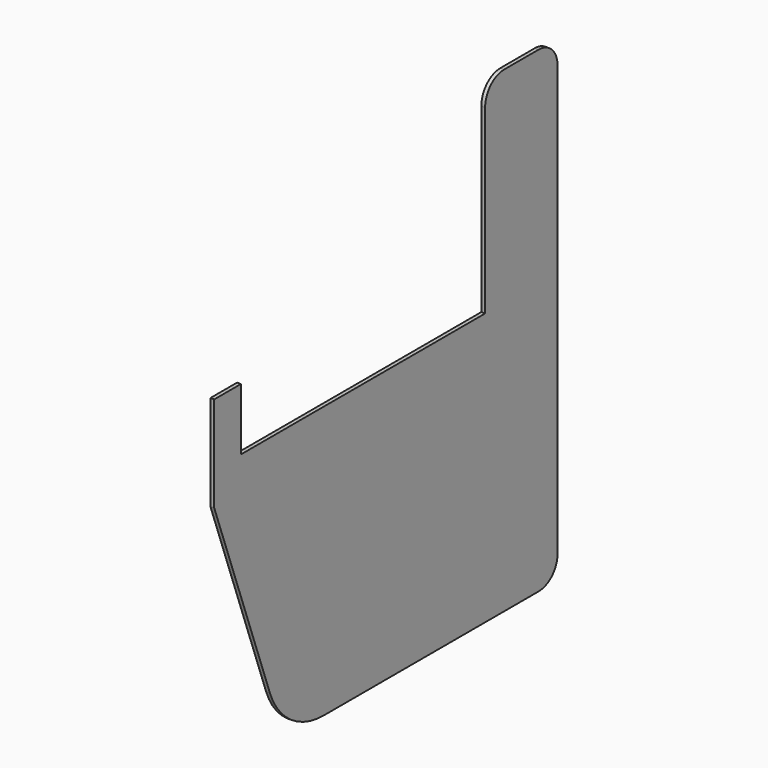
from build123d import *

# Parameters (mm, degrees)
F1_DEPTH      = 2
F1_DEPTH_BACK = 2


with BuildPart() as f1:
    # F0 (on Right) → F1 (new body, two sides)
    with BuildSketch(Plane.YZ) as f1_sk:
        with BuildLine():
            Line((0, 100), (0, 0))
            Line((0, 0), (73.031177, -200.651511))
            ThreePointArc((73.031177, -200.651511), (100.489891, -236.436403), (143.508124, -250))
            Line((143.508124, -250), (425, -250))
            ThreePointArc((425, -250), (442.67767, -242.67767), (450, -225))
            Line((450, -225), (450, 0))
            Line((450, 0), (450, 225))
            ThreePointArc((450, 225), (442.67767, 242.67767), (425, 250))
            Line((425, 250), (380, 250))
            ThreePointArc((380, 250), (362.32233, 242.67767), (355, 225))
            Line((355, 225), (355, 35))
            Line((355, 35), (35, 35))
            Line((35, 35), (35, 100))
            Line((35, 100), (0, 100))
        make_face()
    extrude(amount=F1_DEPTH)
    extrude(f1_sk.sketch, amount=-F1_DEPTH_BACK)


solid = f1.part
